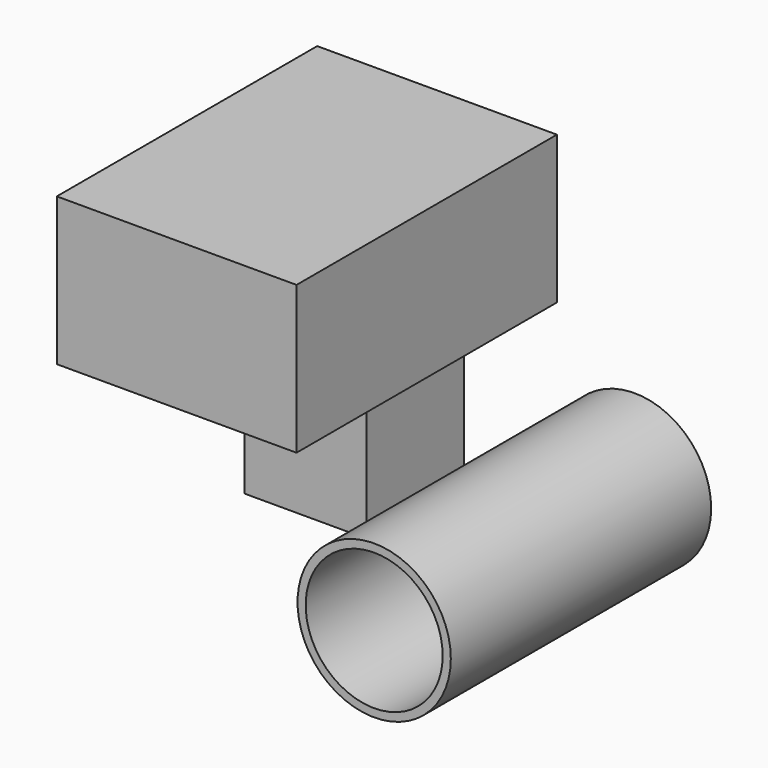
from build123d import *

# Parameters (mm, degrees)
F0_W     = 74.832886
F0_H     = 46.123411
F2_DEPTH = 101.6
F1_W     = 38.122408
F1_H     = 38.122413
F3_DEPTH = 38.1254
F4_R     = 23.925589
F5_DEPTH = 101.6
F6_T     = -2.54


with BuildPart() as f2:
    # F0 (on Front) → F2 (new body)
    with BuildSketch(Plane.XZ):
        with Locations((-31.062708, 33.180618)):
            Rectangle(F0_W, F0_H)
    extrude(amount=F2_DEPTH)


with BuildPart() as f3:
    # F1 (on Front) → F3 (new body)
    with BuildSketch(Plane.XZ):
        with Locations((-41.652266, -29.650766)):
            Rectangle(F1_W, F1_H)
    extrude(amount=F3_DEPTH)


with BuildPart() as f5:
    # F4 (on Front) → F5 (new body)
    with BuildSketch(Plane.XZ):
        with Locations((30.59206, -30.827383)):
            Circle(F4_R)
    extrude(amount=F5_DEPTH)

    # F6
    f6_openings = [f5.faces().sort_by_distance(p)[0] for p in [
        (30.59206, -101.6, -30.827383),
    ]]
    offset(amount=F6_T, openings=f6_openings)


solid = Compound([f2.part, f3.part, f5.part])
